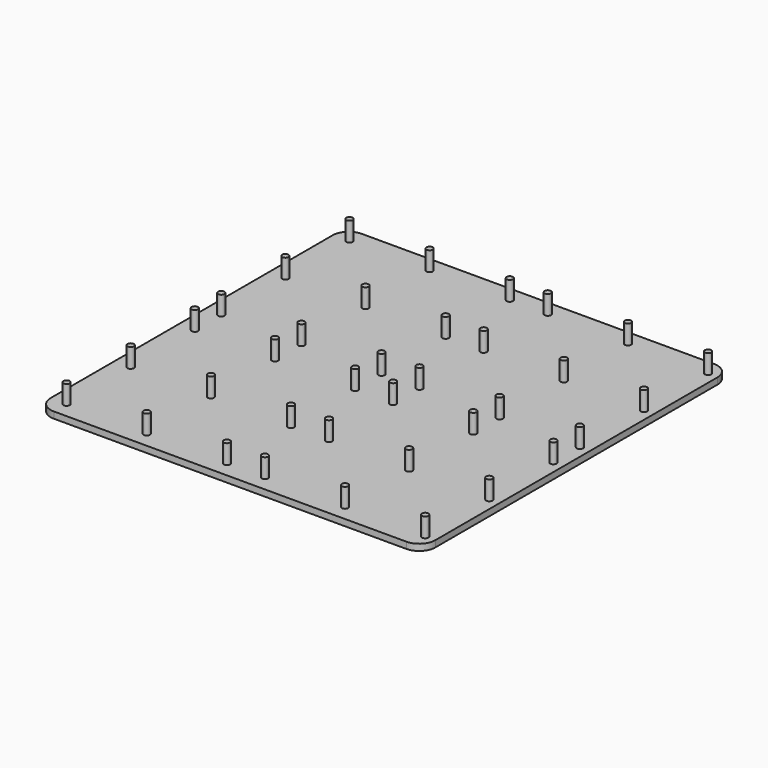
from build123d import *

# Parameters (mm, degrees)
F0_W     = 120
F0_H     = 120
F1_DEPTH = 2
F2_R     = 5
F3_R     = 1
F4_DEPTH = 6


with BuildPart() as f1:
    # F0 (on Top) → F1 (new body)
    with BuildSketch(Plane.XY):
        with Locations((-0.924264, -0.147626)):
            Rectangle(F0_W, F0_H)
    extrude(amount=F1_DEPTH)

    # F2
    f2_edges = [f1.edges().sort_by_distance(p)[0] for p in [
        (59.075736, -60.147626, 1),
        (59.075736, 59.852374, 1),
        (-60.924264, 59.852374, 1),
        (-60.924264, -60.147626, 1),
    ]]
    fillet(f2_edges, radius=F2_R)

    # F3 (on face) → F4 (join)
    with BuildSketch(Plane.XY.offset(2)):
        with Locations((-55.924264, -55.147626)):
            Circle(F3_R)
        with Locations((-55.924264, -30.147626)):
            Circle(F3_R)
        with Locations((-30.924264, -55.147626)):
            Circle(F3_R)
        with Locations((-30.924264, -30.147626)):
            Circle(F3_R)
        with Locations((-5.924264, -55.147626)):
            Circle(F3_R)
        with Locations((-5.924264, -30.147626)):
            Circle(F3_R)
        with Locations((-55.924264, -5.147626)):
            Circle(F3_R)
        with Locations((-30.924264, -5.147626)):
            Circle(F3_R)
        with Locations((-5.924264, -5.147626)):
            Circle(F3_R)
        with Locations((5.924264, -30.147626)):
            Circle(F3_R)
        with Locations((5.924264, -55.147626)):
            Circle(F3_R)
        with Locations((5.924264, -5.147626)):
            Circle(F3_R)
        with Locations((30.924264, -5.147626)):
            Circle(F3_R)
        with Locations((55.924264, -5.147626)):
            Circle(F3_R)
        with Locations((55.924264, -30.147626)):
            Circle(F3_R)
        with Locations((55.924264, -55.147626)):
            Circle(F3_R)
        with Locations((30.924264, -55.147626)):
            Circle(F3_R)
        with Locations((30.924264, -30.147626)):
            Circle(F3_R)
        with Locations((-55.924264, 5.147626)):
            Circle(F3_R)
        with Locations((-30.924264, 5.147626)):
            Circle(F3_R)
        with Locations((-5.924264, 5.147626)):
            Circle(F3_R)
        with Locations((5.924264, 5.147626)):
            Circle(F3_R)
        with Locations((30.924264, 5.147626)):
            Circle(F3_R)
        with Locations((55.924264, 5.147626)):
            Circle(F3_R)
        with Locations((-55.924264, 30.147626)):
            Circle(F3_R)
        with Locations((-30.924264, 30.147626)):
            Circle(F3_R)
        with Locations((5.924264, 30.147626)):
            Circle(F3_R)
        with Locations((-5.924264, 30.147626)):
            Circle(F3_R)
        with Locations((30.924264, 30.147626)):
            Circle(F3_R)
        with Locations((55.924264, 30.147626)):
            Circle(F3_R)
        with Locations((55.924264, 55.147626)):
            Circle(F3_R)
        with Locations((5.924264, 55.147626)):
            Circle(F3_R)
        with Locations((-5.924264, 55.147626)):
            Circle(F3_R)
        with Locations((-30.924264, 55.147626)):
            Circle(F3_R)
        with Locations((-55.924264, 55.147626)):
            Circle(F3_R)
        with Locations((30.924264, 55.147626)):
            Circle(F3_R)
    extrude(amount=F4_DEPTH)


solid = f1.part
